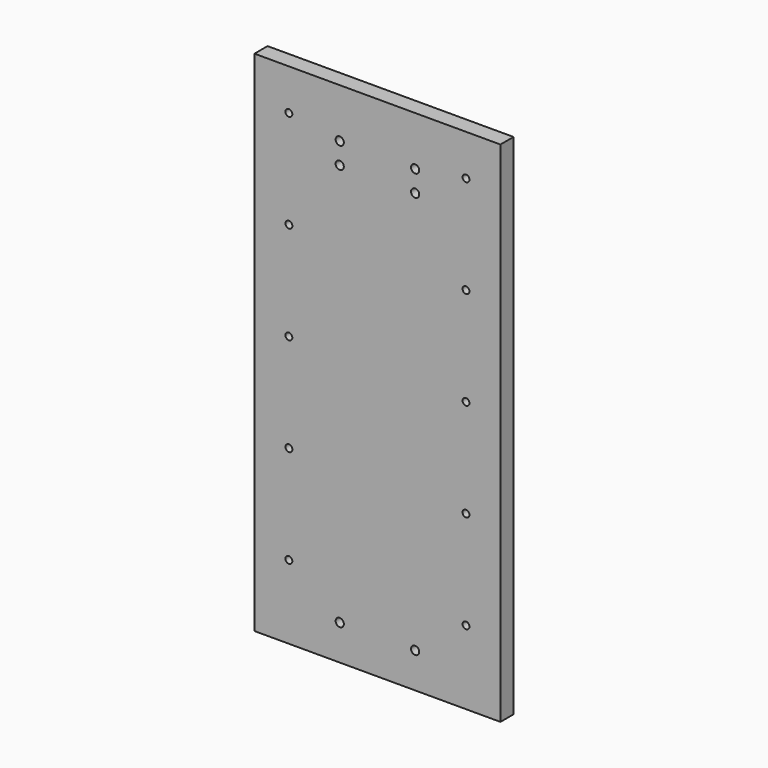
from build123d import *

# Parameters (mm, degrees)
F0_W     = 150
F0_H     = 310
F0_R     = 2.1
F0_R_2   = 2.5
F1_DEPTH = 10


with BuildPart() as f1:
    # F0 (on Front) → F1 (new body)
    with BuildSketch(Plane.XZ):
        Rectangle(F0_W, F0_H)
        with Locations((-54, -110)):
            Circle(F0_R, mode=Mode.SUBTRACT)
        with Locations((-23, -133.5)):
            Circle(F0_R_2, mode=Mode.SUBTRACT)
        with Locations((-54, -50)):
            Circle(F0_R, mode=Mode.SUBTRACT)
        with Locations((23, -133.5)):
            Circle(F0_R_2, mode=Mode.SUBTRACT)
        with Locations((54, -110)):
            Circle(F0_R, mode=Mode.SUBTRACT)
        with Locations((54, -50)):
            Circle(F0_R, mode=Mode.SUBTRACT)
        with Locations((-54, 10)):
            Circle(F0_R, mode=Mode.SUBTRACT)
        with Locations((-54, 70)):
            Circle(F0_R, mode=Mode.SUBTRACT)
        with Locations((-54, 130)):
            Circle(F0_R, mode=Mode.SUBTRACT)
        with Locations((-23, 112)):
            Circle(F0_R_2, mode=Mode.SUBTRACT)
        with Locations((-23, 125)):
            Circle(F0_R_2, mode=Mode.SUBTRACT)
        with Locations((54, 10)):
            Circle(F0_R, mode=Mode.SUBTRACT)
        with Locations((54, 70)):
            Circle(F0_R, mode=Mode.SUBTRACT)
        with Locations((23, 112)):
            Circle(F0_R_2, mode=Mode.SUBTRACT)
        with Locations((23, 125)):
            Circle(F0_R_2, mode=Mode.SUBTRACT)
        with Locations((54, 130)):
            Circle(F0_R, mode=Mode.SUBTRACT)
    extrude(amount=F1_DEPTH)


solid = f1.part
